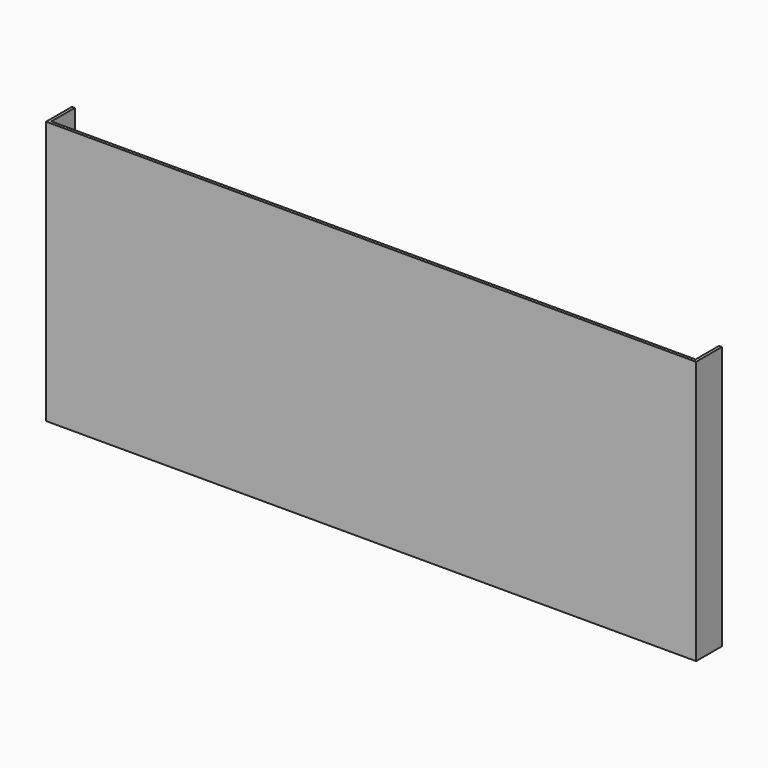
from build123d import *

# Parameters (mm, degrees)
F1_DEPTH = 1
F2_W     = 1
F2_H     = 90
F3_DEPTH = 10


with BuildPart() as f1:
    # F0 (on Front) → F1 (new body)
    with BuildSketch(Plane.XZ):
        Polygon((111, -49.083949), (111, 40.916051), (60.5, 40.916051), (0, 40.916051), (-111, 40.916051), (-111, -49.083949), align=None)
    extrude(amount=F1_DEPTH)

    # F2 (on face) → F3 (join)
    with BuildSketch(Plane(origin=(0, 0, 0), x_dir=(-1, 0, 0), z_dir=(0, 1, 0))):
        with Locations((-110.5, -4.083949)):
            Rectangle(F2_W, F2_H)
        with Locations((110.5, -4.083949)):
            Rectangle(F2_W, F2_H)
    extrude(amount=F3_DEPTH)


solid = f1.part
